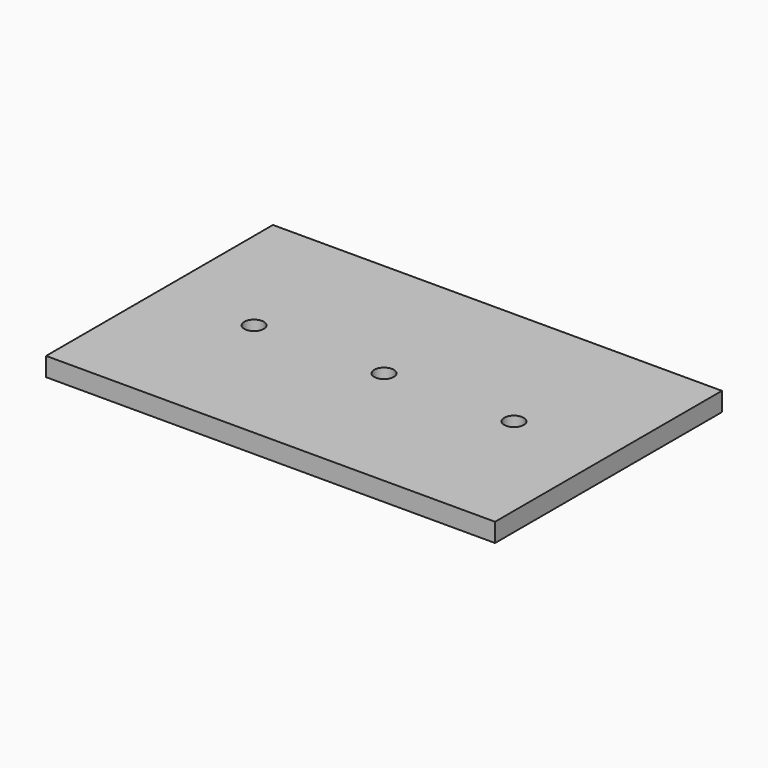
from build123d import *

# Parameters (mm, degrees)
F0_W     = 76
F0_H     = 48
F0_R     = 1.651
F1_DEPTH = 3.175


with BuildPart() as f1:
    # F0 (on Top) → F1 (new body)
    with BuildSketch(Plane.XY):
        with Locations((38, 24)):
            Rectangle(F0_W, F0_H)
        with Locations((16, 24)):
            Circle(F0_R, mode=Mode.SUBTRACT)
        with Locations((38, 24)):
            Circle(F0_R, mode=Mode.SUBTRACT)
        with Locations((60, 24)):
            Circle(F0_R, mode=Mode.SUBTRACT)
    extrude(amount=F1_DEPTH)


solid = f1.part
